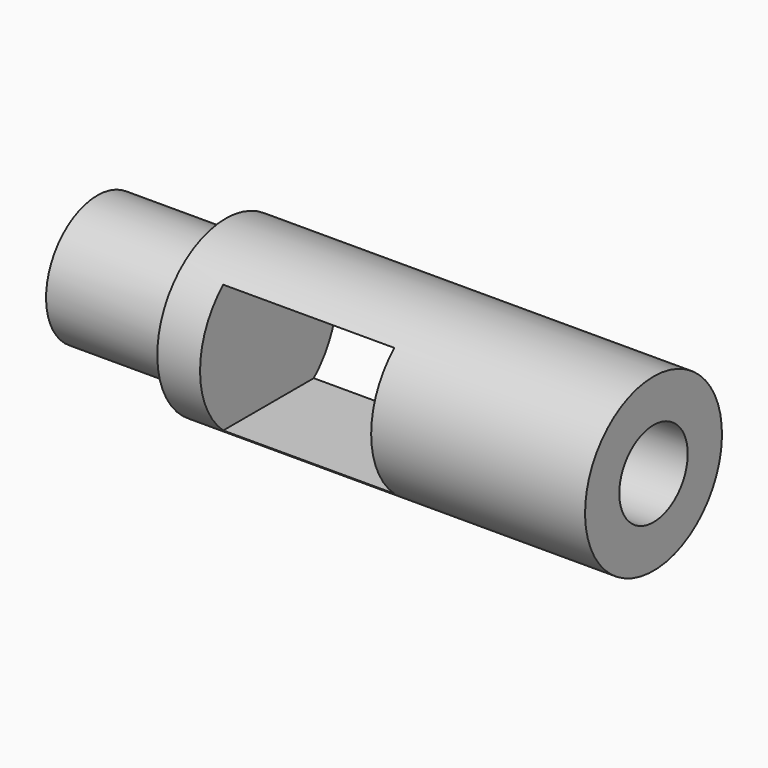
from build123d import *

# Parameters (mm, degrees)
F2_W          = 12.7
F2_H          = 4.7625
F3_DEPTH      = 6.351
F3_DEPTH_BACK = 6.351


with BuildPart() as f1:
    # F0 (on Front) → F1 (revolve)
    with BuildSketch(Plane.XZ):
        Polygon((0, 4.7625), (0, 0), (22.225, 0), (22.225, 3.175), (41.275, 3.175), (41.275, 6.35), (9.525, 6.35), (9.525, 4.7625), align=None)
    revolve(axis=Axis((11.1125, 0, 0), (-1, 0, 0)))

    # F2 (on Front) → F3 (cut, two sides)
    with BuildSketch(Plane.XZ) as f3_sk:
        with Locations((19.05, 2.38125)):
            Rectangle(F2_W, F2_H)
        with Locations((19.05, -2.38125)):
            Rectangle(F2_W, F2_H)
    extrude(amount=-F3_DEPTH, mode=Mode.SUBTRACT)
    extrude(f3_sk.sketch, amount=F3_DEPTH_BACK, mode=Mode.SUBTRACT)


solid = f1.part
